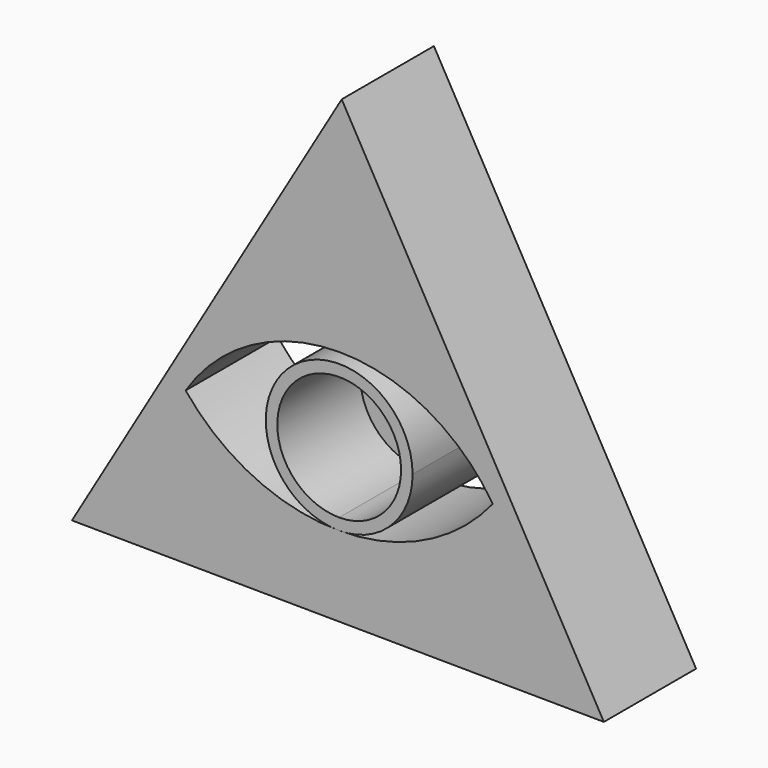
from build123d import *

# Parameters (mm, degrees)
F1_DEPTH = 25.4
F2_T     = -2.54


with BuildPart() as f1:
    # F0 (on Front) → F1 (new body)
    with BuildSketch(Plane.XZ):
        Polygon((58.3398665776, -34.3291762416), (0.5600054274, 67.6883946304), (-58.899872005, -33.3592183888), align=None)
        with BuildLine():
            ThreePointArc((-33.8453555666, 0), (0, 18.4960578721), (33.8453555666, 0))
            ThreePointArc((33.8453555666, 0), (18.7571482754, -11.9275272018), (3.28e-08, -16.1806782942))
            ThreePointArc((3.28e-08, -16.1806782942), (-18.7571482459, -11.927527216), (-33.8453555666, 0))
        make_face(mode=Mode.SUBTRACT)
    extrude(amount=F1_DEPTH)


with BuildPart() as f1b:
    # F0 (on Front) → F1, piece 2 (new body)
    with BuildSketch(Plane.XZ):
        with BuildLine():
            ThreePointArc((16.1806782942, 0), (-11.4414673576, 11.4414673344), (3.28e-08, -16.1806782942))
            ThreePointArc((3.28e-08, -16.1806782942), (11.4414673576, -11.4414673344), (16.1806782942, 0))
        make_face()
    extrude(amount=F1_DEPTH)

    # F2
    f2_openings = [f1b.faces().sort_by_distance(p)[0] for p in [
        (0, -25.4, 0),
    ]]
    offset(amount=F2_T, openings=f2_openings)


solid = Compound([f1.part, f1b.part])
